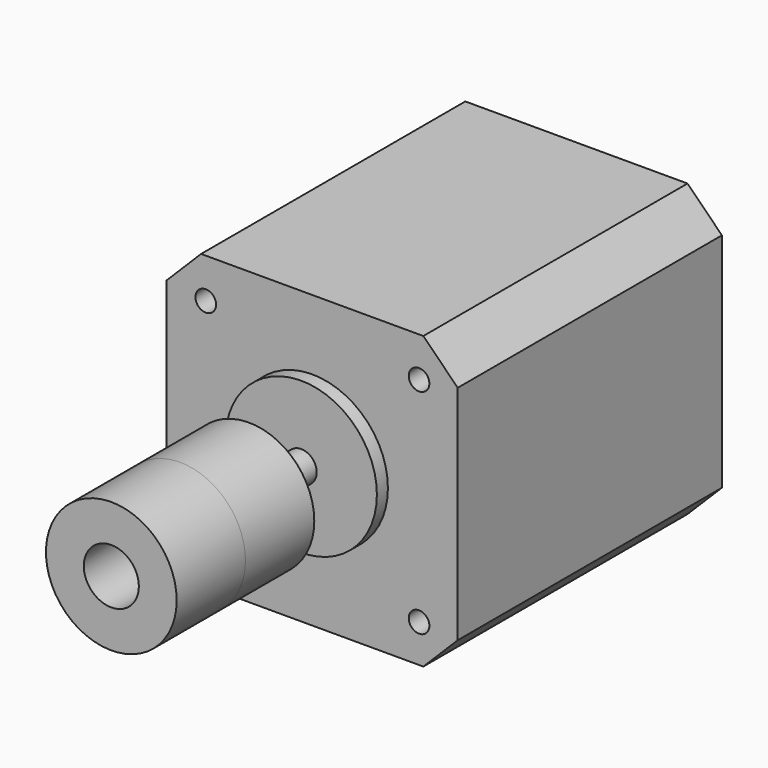
from build123d import *

# Parameters (mm, degrees)
F0_W      = 42.3
F0_H      = 42.3
F0_R      = 11
F0_R_2    = 2.25
F1_DEPTH  = 48
F2_DEPTH  = 2
F3_DEPTH  = 24
F4_SIZE   = 5
F5_R      = 1.5
F6_DEPTH  = 5
F9_DEPTH  = 15
F10_R     = 9.5
F10_R_2   = 2.25
F11_DEPTH = 12.5
F12_R     = 9.5
F12_R_2   = 4
F13_DEPTH = 12.5


with BuildPart() as f1:
    # F0 (on Front) → F1 (new body)
    with BuildSketch(Plane.XZ):
        with Locations((24.9311704397, -23.708854264)):
            Rectangle(F0_W, F0_H)
        with Locations((24.9311704397, -23.708854264)):
            Circle(F0_R, mode=Mode.SUBTRACT)
        with Locations((24.9311704397, -23.708854264)):
            Circle(F0_R)
        with Locations((24.9311704397, -23.708854264)):
            Circle(F0_R_2, mode=Mode.SUBTRACT)
        with Locations((24.9311704397, -23.708854264)):
            Circle(F0_R_2)
    extrude(amount=-F1_DEPTH)

    # F0 (on Front) → F2 (join)
    with BuildSketch(Plane.XZ):
        with Locations((24.9311704397, -23.708854264)):
            Circle(F0_R)
        with Locations((24.9311704397, -23.708854264)):
            Circle(F0_R_2, mode=Mode.SUBTRACT)
    extrude(amount=F2_DEPTH)

    # F0 (on Front) → F3 (join)
    with BuildSketch(Plane.XZ):
        with Locations((24.9311704397, -23.708854264)):
            Circle(F0_R_2)
    extrude(amount=F3_DEPTH)

    # F4
    f4_edges = [f1.edges().sort_by_distance(p)[0] for p in [
        (46.08117, 24, -2.558854),
        (3.78117, 24, -2.558854),
        (46.08117, 24, -44.858854),
        (3.78117, 24, -44.858854),
    ]]
    chamfer(f4_edges, length=F4_SIZE)

    # F5 (on face) → F6 (cut)
    with BuildSketch(Plane.XZ):
        with Locations((9.4601102173, -8.3527764827)):
            Circle(F5_R)
        with Locations((40.4601102173, -8.3527764827)):
            Circle(F5_R)
        with Locations((9.4601102173, -39.3527764827)):
            Circle(F5_R)
        with Locations((40.4601102173, -39.3527764827)):
            Circle(F5_R)
    extrude(amount=-F6_DEPTH, mode=Mode.SUBTRACT)

    # F8 (on face) → F9 (cut)
    with BuildSketch(Plane.XZ.offset(24)):
        with BuildLine():
            Line((23.5169568773, -21.958854264), (26.3453840021, -21.958854264))
            ThreePointArc((26.3453840021, -21.958854264), (24.9311704397, -21.458854264), (23.5169568773, -21.958854264))
        make_face()
    extrude(amount=-F9_DEPTH, mode=Mode.SUBTRACT)


with BuildPart() as f11:
    # F10 (on face) → F11 (new body)
    with BuildSketch(Plane.XZ.offset(24)):
        with Locations((24.9311704397, -23.708854264)):
            Circle(F10_R)
        with Locations((24.9311704397, -23.708854264)):
            Circle(F10_R_2, mode=Mode.SUBTRACT)
    extrude(amount=-F11_DEPTH)

    # F12 (on face) → F13 (join)
    with BuildSketch(Plane.XZ.offset(24)):
        with Locations((24.9311704397, -23.708854264)):
            Circle(F12_R)
        with Locations((24.9311704397, -23.708854264)):
            Circle(F12_R_2, mode=Mode.SUBTRACT)
    extrude(amount=F13_DEPTH)


solid = Compound([f1.part, f11.part])
